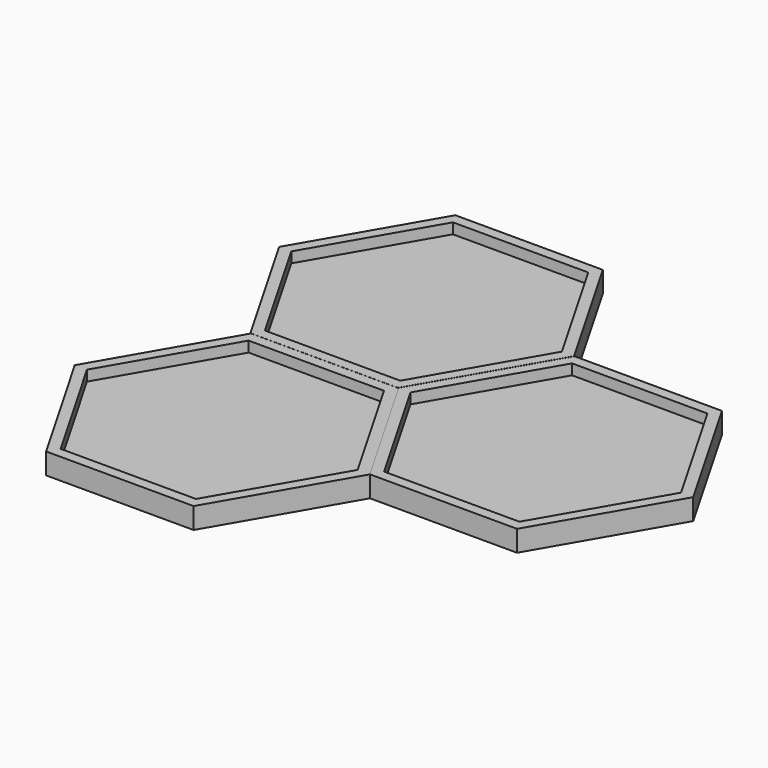
from build123d import *

# Parameters (mm, degrees)
F1_DEPTH = 3.175
F2_T     = -1.5875


with BuildPart() as f1:
    # F0 (on Top) → F1 (new body)
    with BuildSketch(Plane.XY):
        Polygon((22.225, -0.026565), (11.135506, 19.234132), (-11.089494, 19.260697), (-22.225, 0.026565), (-11.135506, -19.234132), (11.089494, -19.260697), align=None)
    extrude(amount=F1_DEPTH)

    # F2
    f2_openings = [f1.faces().sort_by_distance(p)[0] for p in [
        (0, 0, 3.175),
    ]]
    offset(amount=F2_T, openings=f2_openings)


with BuildPart() as f3_1:
    # F3: copy of F1
    add(f1.part.moved(Location((33.35891, -19.28628, 0))))


with BuildPart() as f4_1:
    # F4: copy of F1
    add(f1.part.moved(Location((0.05058, -38.51312, 0))))


solid = Compound([f1.part, f3_1.part, f4_1.part])
